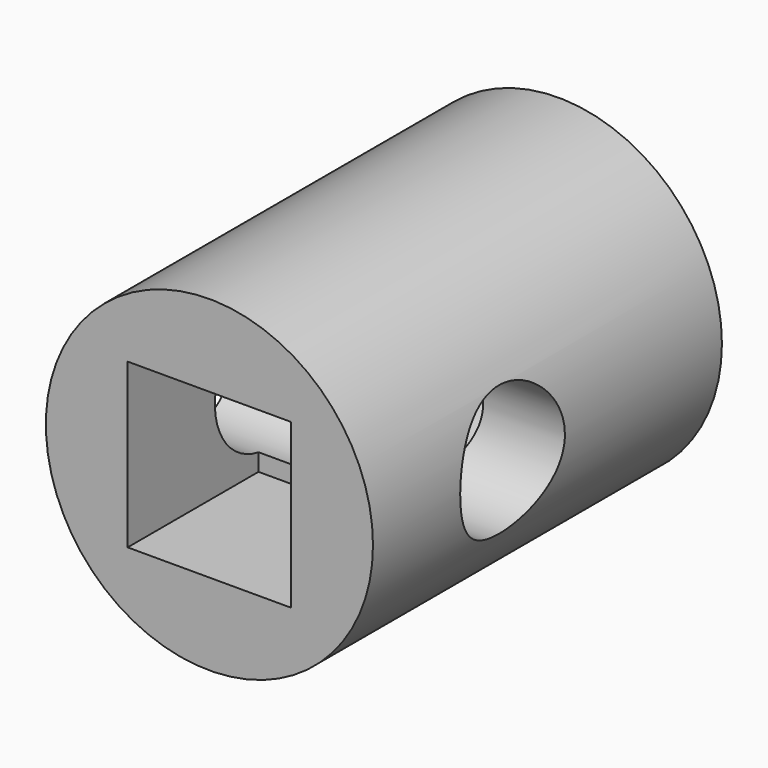
from build123d import *

# Parameters (mm, degrees)
F0_R     = 9.525
F1_DEPTH = 25.4
F3_DEPTH = 25.401
F4_DEPTH = 9.525
F6_DEPTH = 9.525
F7_R     = 3.81
F8_DEPTH = 12.7


with BuildPart() as f1:
    # F0 (on Front) → F1 (new body)
    with BuildSketch(Plane.XZ):
        Circle(F0_R)
    extrude(amount=-F1_DEPTH)

    # F2 (on face) → F3 (cut, through all)
    with BuildSketch(Plane.XZ):
        with BuildLine():
            ThreePointArc((4.7625, 0), (3.367596, 3.367596), (0, 4.7625))
            ThreePointArc((0, 4.7625), (-3.367596, 3.367596), (-4.7625, 0))
            ThreePointArc((-4.7625, 0), (-3.367596, -3.367596), (0, -4.7625))
            ThreePointArc((0, -4.7625), (3.367596, -3.367596), (4.7625, 0))
        make_face()
    extrude(amount=-F3_DEPTH, mode=Mode.SUBTRACT)

    # F2 (on face) → F4 (cut)
    with BuildSketch(Plane.XZ):
        with BuildLine():
            Line((4.7625, 0), (4.7625, 4.7625))
            Line((4.7625, 4.7625), (0, 4.7625))
            ThreePointArc((0, 4.7625), (3.367596, 3.367596), (4.7625, 0))
        make_face()
        with BuildLine():
            ThreePointArc((-4.7625, 0), (-3.367596, 3.367596), (0, 4.7625))
            Line((0, 4.7625), (-4.7625, 4.7625))
            Line((-4.7625, 4.7625), (-4.7625, 0))
        make_face()
        with BuildLine():
            Line((4.7625, -4.7625), (4.7625, 0))
            ThreePointArc((4.7625, 0), (3.367596, -3.367596), (0, -4.7625))
            Line((0, -4.7625), (4.7625, -4.7625))
        make_face()
        with BuildLine():
            ThreePointArc((0, -4.7625), (-3.367596, -3.367596), (-4.7625, 0))
            Line((-4.7625, 0), (-4.7625, -4.7625))
            Line((-4.7625, -4.7625), (0, -4.7625))
        make_face()
    extrude(amount=-F4_DEPTH, mode=Mode.SUBTRACT)

    # F5 (on face) → F6 (cut)
    with BuildSketch(Plane(origin=(0, 25.4, 0), x_dir=(-1, 0, 0), z_dir=(0, 1, 0))):
        Polygon((-6.324151, 3.65125), (-6.324151, -3.65125), (0, -7.3025), (6.324151, -3.65125), (6.324151, 3.65125), (0, 7.3025), align=None)
    extrude(amount=-F6_DEPTH, mode=Mode.SUBTRACT)

    # F7 (on Right) → F8 (cut, symmetric)
    with BuildSketch(Plane.YZ):
        with Locations((10.16, 0)):
            Circle(F7_R)
    extrude(amount=F8_DEPTH, both=True, mode=Mode.SUBTRACT)


solid = f1.part
